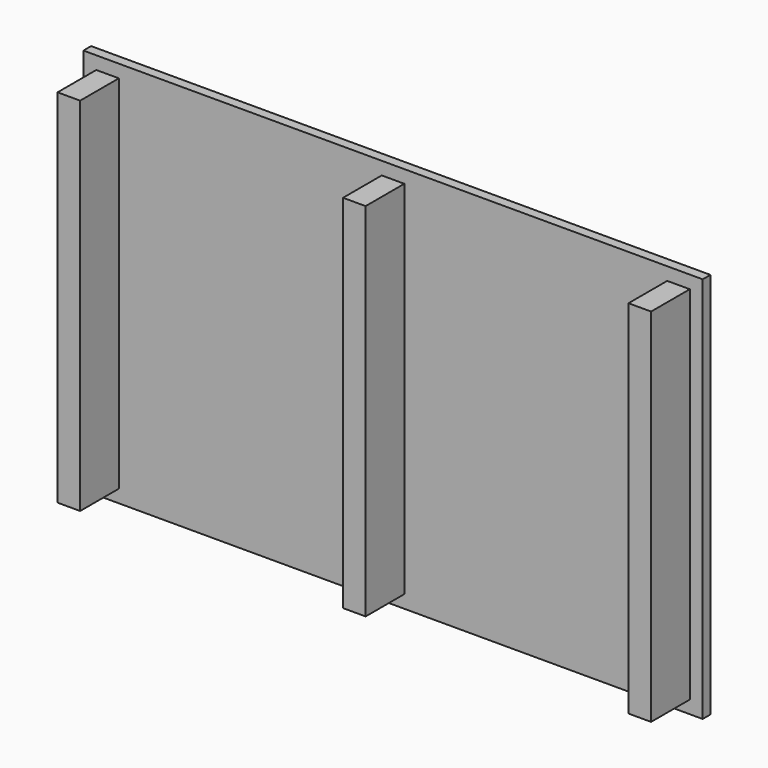
from build123d import *

# Parameters (mm, degrees)
F0_W     = 44.45
F0_H     = 711.2
F1_DEPTH = 95.25
F0_W_2   = 1219.2
F0_H_2   = 762
F2_DEPTH = 19.05


with BuildPart() as f1:
    # F0 (on Front) → F1 (new body)
    with BuildSketch(Plane.XZ):
        Rectangle(F0_W, F0_H)
        with Locations((-561.975, 0)):
            Rectangle(F0_W, F0_H)
        with Locations((561.975, 0)):
            Rectangle(F0_W, F0_H)
    extrude(amount=F1_DEPTH)


with BuildPart() as f2:
    # F0 (on Front) → F2 (new body)
    with BuildSketch(Plane.XZ):
        Rectangle(F0_W_2, F0_H_2)
        with Locations((-561.975, 0)):
            Rectangle(F0_W, F0_H, mode=Mode.SUBTRACT)
        Rectangle(F0_W, F0_H, mode=Mode.SUBTRACT)
        with Locations((561.975, 0)):
            Rectangle(F0_W, F0_H, mode=Mode.SUBTRACT)
        Rectangle(F0_W, F0_H)
        with Locations((-561.975, 0)):
            Rectangle(F0_W, F0_H)
        with Locations((561.975, 0)):
            Rectangle(F0_W, F0_H)
    extrude(amount=-F2_DEPTH)


solid = Compound([f1.part, f2.part])
